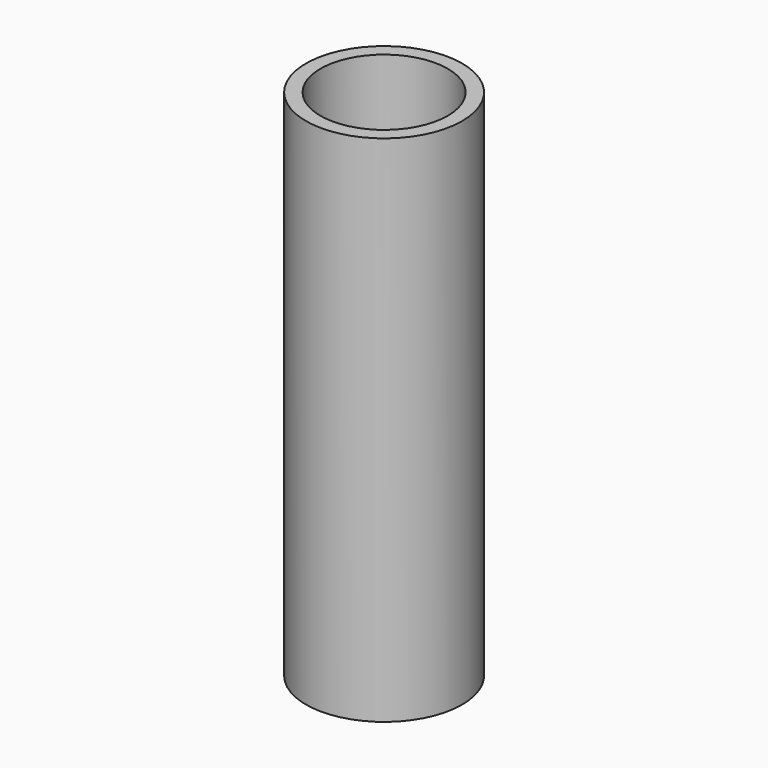
from build123d import *

# Parameters (mm, degrees)
SKETCH_R   = 19
SKETCH_R_2 = 15.5
PAD_DEPTH  = 125


with BuildPart() as part:
    # Sketch → Pad (new body)
    with BuildSketch(Plane.XY):
        Circle(SKETCH_R)
        Circle(SKETCH_R_2, mode=Mode.SUBTRACT)
    extrude(amount=PAD_DEPTH)


solid = part.part
